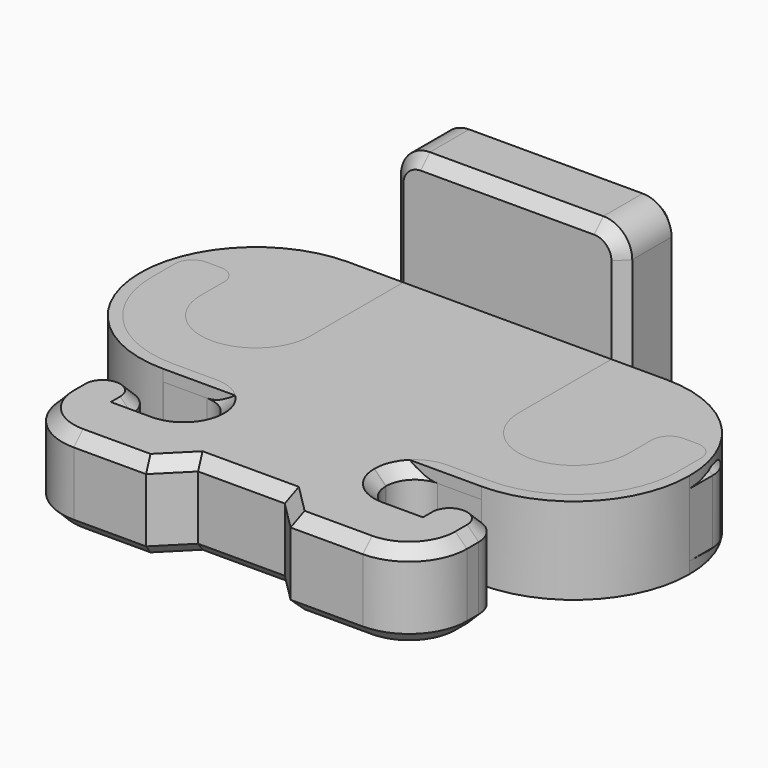
from build123d import *

# Parameters (mm, degrees)
BOX003_W          = 19
BOX003_H          = 8
BOX003_DEPTH      = 3
FILLET_R          = 3.99
BOX004_W          = 8
BOX004_H          = 2.5
BOX004_DEPTH      = 7
FILLET006_R       = 1
BOX012_W          = 5
BOX012_H          = 4
BOX012_DEPTH      = 10
CHAMFER_SIZE      = 1
BOX007_W          = 4
BOX007_H          = 1
BOX007_DEPTH      = 3
BOX006_W          = 2
BOX006_H          = 2
BOX006_DEPTH      = 3
BOX008_W          = 2
BOX008_H          = 2
BOX008_DEPTH      = 3
BOX009_W          = 4
BOX009_H          = 1
BOX009_DEPTH      = 3
BOX005_W          = 14
BOX005_H          = 4.5
BOX005_DEPTH      = 3
FILLET009_R       = 2
BOX010_W          = 10
BOX010_H          = 10
BOX010_DEPTH      = 10
BOX011_W          = 10
BOX011_H          = 10
BOX011_DEPTH      = 10
CYLINDER_R        = 1.5
CYLINDER_DEPTH    = 10
CYLINDER001_R     = 1.5
CYLINDER001_DEPTH = 10
BOX001_W          = 3
BOX001_H          = 10
BOX001_DEPTH      = 10
BOX002_W          = 3
BOX002_H          = 10
BOX002_DEPTH      = 10
BOX_W             = 19
BOX_H             = 8
BOX_DEPTH         = 3
FILLET007_R       = 4
FILLET008_R       = 1
FILLET010_R       = 0.99
CHAMFER001_SIZE   = 0.4


with BuildPart() as fillet_body:
    # Box003 → Box003 (new body)
    with BuildSketch(Plane(origin=(-9.5, -4, 0), x_dir=(1, 0, 0), z_dir=(0, 0, 1))):
        with Locations((9.5, 4)):
            Rectangle(BOX003_W, BOX003_H)
    extrude(amount=BOX003_DEPTH)

    # Fillet
    fillet_edges = [fillet_body.edges().sort_by_distance(p)[0] for p in [
        (-9.5, -4, 1.5),
        (-9.5, 4, 1.5),
        (9.5, -4, 1.5),
        (9.5, 4, 1.5),
    ]]
    fillet(fillet_edges, radius=FILLET_R)


with BuildPart() as fillet006:
    # Box004 → Box004 (new body)
    with BuildSketch(Plane(origin=(-4, 4, 0), x_dir=(1, 0, 0), z_dir=(0, 0, 1))):
        with Locations((4, 1.25)):
            Rectangle(BOX004_W, BOX004_H)
    extrude(amount=BOX004_DEPTH)

    # Fillet006
    fillet006_edges = [fillet006.edges().sort_by_distance(p)[0] for p in [
        (-4, 5.25, 7),
        (4, 5.25, 7),
    ]]
    fillet(fillet006_edges, radius=FILLET006_R)


with BuildPart() as chamfer_body:
    # Box012 → Box012 (new body)
    with BuildSketch(Plane(origin=(-2.5, -11.5, 0), x_dir=(1, 0, 0), z_dir=(0, 0, 1))):
        with Locations((2.5, 2)):
            Rectangle(BOX012_W, BOX012_H)
    extrude(amount=BOX012_DEPTH)

    # Chamfer
    chamfer_edges = [chamfer_body.edges().sort_by_distance(p)[0] for p in [
        (-2.5, -7.5, 5),
        (2.5, -7.5, 5),
    ]]
    chamfer(chamfer_edges, length=CHAMFER_SIZE)


with BuildPart() as cube007:
    # Box007 → Box007 (new body)
    with BuildSketch(Plane(origin=(2, -5, 0), x_dir=(1, 0, 0), z_dir=(0, 0, 1))):
        with Locations((2, 0.5)):
            Rectangle(BOX007_W, BOX007_H)
    extrude(amount=BOX007_DEPTH)


with BuildPart() as fusion003:
    # Box006 → Box006 (new body)
    with BuildSketch(Plane(origin=(1.5, -6, 0), x_dir=(1, 0, 0), z_dir=(0, 0, 1))):
        with Locations((1, 1)):
            Rectangle(BOX006_W, BOX006_H)
    extrude(amount=BOX006_DEPTH)

    # Fusion003: union Cube007
    add(cube007.part)


with BuildPart() as fusion003_1:
    # Fusion003 placement: moved
    add(fusion003.part.moved(Location((1.5, 0, 0))))


with BuildPart() as cube008:
    # Box008 → Box008 (new body)
    with BuildSketch(Plane(origin=(-3.5, -6, 0), x_dir=(1, 0, 0), z_dir=(0, 0, 1))):
        with Locations((1, 1)):
            Rectangle(BOX008_W, BOX008_H)
    extrude(amount=BOX008_DEPTH)


with BuildPart() as fusion005:
    # Box009 → Box009 (new body)
    with BuildSketch(Plane(origin=(-6, -5, 0), x_dir=(1, 0, 0), z_dir=(0, 0, 1))):
        with Locations((2, 0.5)):
            Rectangle(BOX009_W, BOX009_H)
    extrude(amount=BOX009_DEPTH)

    # Fusion004: union Cube008
    add(cube008.part)


with BuildPart() as fusion005_1:
    # Fusion004 placement: moved
    add(fusion005.part.moved(Location((-1.5, 0, 0))))

    # Fusion005: union Fusion003
    add(fusion003_1.part)


with BuildPart() as fillet009:
    # Box005 → Box005 (new body)
    with BuildSketch(Plane(origin=(-7, -8.5, 0), x_dir=(1, 0, 0), z_dir=(0, 0, 1))):
        with Locations((7, 2.25)):
            Rectangle(BOX005_W, BOX005_H)
    extrude(amount=BOX005_DEPTH)

    # Cut003: cut Fusion005
    add(fusion005_1.part, mode=Mode.SUBTRACT)

    # Cut004: cut Chamfer body
    add(chamfer_body.part, mode=Mode.SUBTRACT)

    # Fillet009
    fillet009_edges = [fillet009.edges().sort_by_distance(p)[0] for p in [
        (-7, -8.5, 1.5),
        (7, -8.5, 1.5),
    ]]
    fillet(fillet009_edges, radius=FILLET009_R)


with BuildPart() as cube010:
    # Box010 → Box010 (new body)
    with BuildSketch(Plane(origin=(6, 2, 0), x_dir=(1, 0, 0), z_dir=(0, 0, 1))):
        with Locations((5, 5)):
            Rectangle(BOX010_W, BOX010_H)
    extrude(amount=BOX010_DEPTH)


with BuildPart() as fusion002:
    # Box011 → Box011 (new body)
    with BuildSketch(Plane(origin=(-16, 2, 0), x_dir=(1, 0, 0), z_dir=(0, 0, 1))):
        with Locations((5, 5)):
            Rectangle(BOX011_W, BOX011_H)
    extrude(amount=BOX011_DEPTH)

    # Fusion002: union Cube010
    add(cube010.part)


with BuildPart() as cylinder:
    # Cylinder → Cylinder (new body)
    with BuildSketch(Plane(origin=(5.5, 0, 0), x_dir=(1, 0, 0), z_dir=(0, 0, 1))):
        Circle(CYLINDER_R)
    extrude(amount=CYLINDER_DEPTH)


with BuildPart() as cylinder001:
    # Cylinder001 → Cylinder001 (new body)
    with BuildSketch(Plane(origin=(-5.5, 0, 0), x_dir=(1, 0, 0), z_dir=(0, 0, 1))):
        Circle(CYLINDER001_R)
    extrude(amount=CYLINDER001_DEPTH)


with BuildPart() as cube001:
    # Box001 → Box001 (new body)
    with BuildSketch(Plane(origin=(4, 0, 0), x_dir=(1, 0, 0), z_dir=(0, 0, 1))):
        with Locations((1.5, 5)):
            Rectangle(BOX001_W, BOX001_H)
    extrude(amount=BOX001_DEPTH)


with BuildPart() as fusion:
    # Box002 → Box002 (new body)
    with BuildSketch(Plane(origin=(-7, 0, 0), x_dir=(1, 0, 0), z_dir=(0, 0, 1))):
        with Locations((1.5, 5)):
            Rectangle(BOX002_W, BOX002_H)
    extrude(amount=BOX002_DEPTH)

    # Fusion: union Cylinder, Cylinder001, Cube001
    add(cylinder.part)
    add(cylinder001.part)
    add(cube001.part)


with BuildPart() as chamfer001:
    # Box → Box (new body)
    with BuildSketch(Plane(origin=(-9.5, -4, 0), x_dir=(1, 0, 0), z_dir=(0, 0, 1))):
        with Locations((9.5, 4)):
            Rectangle(BOX_W, BOX_H)
    extrude(amount=BOX_DEPTH)

    # Fillet007
    fillet007_edges = [chamfer001.edges().sort_by_distance(p)[0] for p in [
        (-9.5, -4, 1.5),
        (9.5, -4, 1.5),
    ]]
    fillet(fillet007_edges, radius=FILLET007_R)

    # Cut: cut Fusion
    add(fusion.part, mode=Mode.SUBTRACT)

    # Cut002: cut Fusion002
    add(fusion002.part, mode=Mode.SUBTRACT)

    # Fillet008
    fillet008_edges = [chamfer001.edges().sort_by_distance(p)[0] for p in [
        (-9.5, 2, 1.5),
        (-7, 2, 1.5),
        (7, 2, 1.5),
        (9.5, 2, 1.5),
    ]]
    fillet(fillet008_edges, radius=FILLET008_R)

    # Fusion006: union Fillet009
    add(fillet009.part)

    # Fillet010
    fillet010_edges = [chamfer001.edges().sort_by_distance(p)[0] for p in [
        (-3, -4, 1.5),
        (3, -4, 1.5),
        (-3, -6, 1.5),
        (-7, -5, 1.5),
        (7, -5, 1.5),
        (5, -5, 1.5),
        (3, -6, 1.5),
        (-5, -5, 1.5),
    ]]
    fillet(fillet010_edges, radius=FILLET010_R)

    # Fusion007: union Fillet006
    add(fillet006.part)

    # Chamfer001
    chamfer001_edges = [chamfer001.edges().sort_by_distance(p)[0] for p in [
        (-4.745, -4, 0),
        (-4.745, -4, 3),
        (-8.328427, -2.828427, 0),
        (-8.328427, -2.828427, 3),
        (-5.5, -1.5, 0),
        (-5.5, -1.5, 3),
        (-7, 0.5, 3),
        (-7, 0.5, 0),
        (-7.292893, 1.707107, 0),
        (-7.292893, 1.707107, 3),
        (-8.25, 2, 0),
        (-8.25, 2, 3),
        (-9.207107, 1.707107, 0),
        (-9.207107, 1.707107, 3),
        (-9.5, 0.5, 3),
        (-9.5, 0.5, 0),
        (-3.289964, -4.289964, 0),
        (-3.289964, -4.289964, 3),
        (-3, -5, 3),
        (-3, -5, 0),
        (-3.289964, -5.710036, 0),
        (-3.289964, -5.710036, 3),
        (-4.495, -6, 0),
        (-4.495, -6, 3),
        (-5, -5.995, 3),
        (-5, -5.995, 0),
        (-5.289964, -5.289964, 3),
        (-5.289964, -5.289964, 0),
        (-6, -5, 0),
        (-6, -5, 3),
        (-6.710036, -5.289964, 0),
        (-6.710036, -5.289964, 3),
        (-7, -6.245, 3),
        (-7, -6.245, 0),
        (-6.414214, -7.914214, 0),
        (-6.414214, -7.914214, 3),
        (-3.75, -8.5, 0),
        (-3.75, -8.5, 3),
        (-2, -8, 0),
        (-2, -8, 3),
        (0, -7.5, 0),
        (0, -7.5, 3),
        (2, -8, 0),
        (2, -8, 3),
        (3.75, -8.5, 0),
        (3.75, -8.5, 3),
        (6.414214, -7.914214, 0),
        (6.414214, -7.914214, 3),
        (7, -6.245, 3),
        (7, -6.245, 0),
        (6.710036, -5.289964, 0),
        (6.710036, -5.289964, 3),
        (6, -5, 0),
        (6, -5, 3),
        (5.289964, -5.289964, 0),
        (5.289964, -5.289964, 3),
        (5, -5.995, 3),
        (5, -5.995, 0),
        (4.495, -6, 0),
        (4.495, -6, 3),
        (3.289964, -5.710036, 0),
        (3.289964, -5.710036, 3),
        (3, -5, 3),
        (3, -5, 0),
        (3.289964, -4.289964, 0),
        (3.289964, -4.289964, 3),
        (4.745, -4, 0),
        (4.745, -4, 3),
        (8.328427, -2.828427, 0),
        (8.328427, -2.828427, 3),
        (9.5, 0.5, 3),
        (9.5, 0.5, 0),
        (9.207107, 1.707107, 0),
        (9.207107, 1.707107, 3),
        (8.25, 2, 0),
        (8.25, 2, 3),
        (7.292893, 1.707107, 0),
        (7.292893, 1.707107, 3),
        (7, 0.5, 3),
        (7, 0.5, 0),
        (5.5, -1.5, 0),
        (5.5, -1.5, 3),
        (4, 2, 3),
        (-4, 2, 3),
        (4, 4, 4.5),
        (3.707107, 4, 6.707107),
        (0, 4, 7),
        (-3.707107, 4, 6.707107),
        (-4, 4, 4.5),
        (3.707107, 6.5, 6.707107),
        (0, 6.5, 7),
        (-3.707107, 6.5, 6.707107),
        (4, 6.5, 3),
        (0, 6.5, 0),
        (-4, 6.5, 3),
        (4, 3.25, 0),
        (-4, 3.25, 0),
    ]]
    chamfer(chamfer001_edges, length=CHAMFER001_SIZE)


solid = Compound([fillet_body.part, chamfer001.part])
